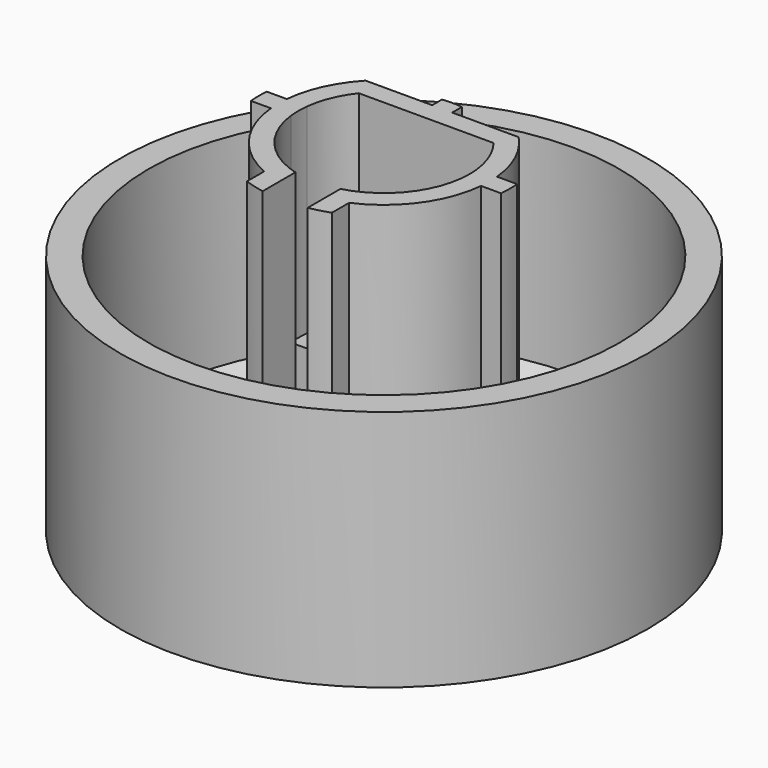
from build123d import *

# Parameters (mm, degrees)
F2_W     = 0.7
F2_H     = 0.7
F3_DEPTH = 13
F4_DEPTH = 6


with BuildPart() as f1:
    # F0 (on Front) → F1 (revolve)
    with BuildSketch(Plane.XZ):
        Polygon((0, 2), (0, 0), (7.25, 0), (9.25, 1), (9.25, 9.5), (8.25, 9.5), (8.25, 2.5), (7, 2), align=None)
    revolve(axis=Axis((0, 0, -0.2857148442), (0, 0, -1)))

    # F2 (on Top) → F3 (join)
    with BuildSketch(Plane.XY):
        with BuildLine():
            Line((-2.9795133831, -0.35), (-3.6834087473, -0.35))
            ThreePointArc((-3.6834087473, -0.35), (-2.9989376836, -2.1671116191), (-1.4885221007, -3.3873739026))
            Line((-1.4885221007, -3.3873739026), (-1.4885221007, -4.1405678301))
            ThreePointArc((-1.4885221007, -4.1405678301), (-1.1424042215, -4.2491072703), (-0.7885221007, -4.3287680576))
            Line((-0.7885221007, -4.3287680576), (-0.7885221007, -3.6150010922))
            Line((-0.7885221007, -3.6150010922), (-0.7885221007, -2.8945177313))
            ThreePointArc((-0.7885221007, -2.8945177313), (-2.2733599524, -1.9575072227), (-2.9795133831, -0.35))
        make_face()
        with BuildLine():
            Line((-0.35, 1.85), (-0.35, 2.55))
            Line((-0.35, 2.55), (-2.6809513237, 2.55))
            ThreePointArc((-2.6809513237, 2.55), (-3.366937745, 1.5341871534), (-3.6834087473, 0.35))
            Line((-3.6834087473, 0.35), (-2.9795133831, 0.35))
            ThreePointArc((-2.9795133831, 0.35), (-2.7739084983, 1.1425548752), (-2.3616731357, 1.85))
            Line((-2.3616731357, 1.85), (-0.35, 1.85))
        make_face()
        with BuildLine():
            Line((2.6809513237, 2.55), (0.35, 2.55))
            Line((0.35, 2.55), (0.35, 1.85))
            Line((0.35, 1.85), (2.3616731357, 1.85))
            ThreePointArc((2.3616731357, 1.85), (2.7739084983, 1.1425548752), (2.9795133831, 0.35))
            Line((2.9795133831, 0.35), (3.6834087473, 0.35))
            ThreePointArc((3.6834087473, 0.35), (3.366937745, 1.5341871534), (2.6809513237, 2.55))
        make_face()
        with BuildLine():
            ThreePointArc((3.6834087473, -0.35), (3.7, 0), (3.6834087473, 0.35))
            Line((3.6834087473, 0.35), (2.9795133831, 0.35))
            ThreePointArc((2.9795133831, 0.35), (3, 0), (2.9795133831, -0.35))
            Line((2.9795133831, -0.35), (3.6834087473, -0.35))
        make_face()
        with Locations((0, 2.2)):
            Rectangle(F2_W, F2_H)
        with BuildLine():
            Line((-2.9795133831, 0.35), (-3.6834087473, 0.35))
            ThreePointArc((-3.6834087473, 0.35), (-3.7, 0), (-3.6834087473, -0.35))
            Line((-3.6834087473, -0.35), (-2.9795133831, -0.35))
            ThreePointArc((-2.9795133831, -0.35), (-3, 0), (-2.9795133831, 0.35))
        make_face()
        with BuildLine():
            ThreePointArc((1.4885221007, -3.3873739026), (2.9989376836, -2.1671116191), (3.6834087473, -0.35))
            Line((3.6834087473, -0.35), (2.9795133831, -0.35))
            ThreePointArc((2.9795133831, -0.35), (2.2733599524, -1.9575072227), (0.7885221007, -2.8945177313))
            Line((0.7885221007, -2.8945177313), (0.7885221007, -3.6150010922))
            Line((0.7885221007, -3.6150010922), (0.7885221007, -4.3287680576))
            ThreePointArc((0.7885221007, -4.3287680576), (1.1424042215, -4.2491072703), (1.4885221007, -4.1405678301))
            Line((1.4885221007, -4.1405678301), (1.4885221007, -3.3873739026))
        make_face()
        with BuildLine():
            ThreePointArc((-3.6834087473, -0.35), (-3.7, 0), (-3.6834087473, 0.35))
            Line((-3.6834087473, 0.35), (-4.3860574552, 0.35))
            ThreePointArc((-4.3860574552, 0.35), (-4.4, 0), (-4.3860574552, -0.35))
            Line((-4.3860574552, -0.35), (-3.6834087473, -0.35))
        make_face()
        with BuildLine():
            Line((0.35, 2.55), (0.35, 2.9795133831))
            ThreePointArc((0.35, 2.9795133831), (0, 3), (-0.35, 2.9795133831))
            Line((-0.35, 2.9795133831), (-0.35, 2.55))
            Line((-0.35, 2.55), (0.35, 2.55))
        make_face()
        with BuildLine():
            Line((4.3860574552, 0.35), (3.6834087473, 0.35))
            ThreePointArc((3.6834087473, 0.35), (3.7, 0), (3.6834087473, -0.35))
            Line((3.6834087473, -0.35), (4.3860574552, -0.35))
            ThreePointArc((4.3860574552, -0.35), (4.4, 0), (4.3860574552, 0.35))
        make_face()
    extrude(amount=F3_DEPTH)

    # F2 (on Top) → F4 (join)
    with BuildSketch(Plane.XY):
        with BuildLine():
            Line((0.35, 0.35), (0.35, 1.85))
            Line((0.35, 1.85), (-0.35, 1.85))
            Line((-0.35, 1.85), (-0.35, 0.35))
            Line((-0.35, 0.35), (-2.9795133831, 0.35))
            ThreePointArc((-2.9795133831, 0.35), (-3, 0), (-2.9795133831, -0.35))
            Line((-2.9795133831, -0.35), (-0.35, -0.35))
            Line((-0.35, -0.35), (-0.35, -2.9795133831))
            ThreePointArc((-0.35, -2.9795133831), (-0.5708451705, -2.9451885833), (-0.7885221007, -2.8945177313))
            Line((-0.7885221007, -2.8945177313), (-0.7885221007, -3.6150010922))
            ThreePointArc((-0.7885221007, -3.6150010922), (0, -3.7), (0.7885221007, -3.6150010922))
            Line((0.7885221007, -3.6150010922), (0.7885221007, -2.8945177313))
            ThreePointArc((0.7885221007, -2.8945177313), (0.5708451705, -2.9451885833), (0.35, -2.9795133831))
            Line((0.35, -2.9795133831), (0.35, -0.35))
            Line((0.35, -0.35), (2.9795133831, -0.35))
            ThreePointArc((2.9795133831, -0.35), (3, 0), (2.9795133831, 0.35))
            Line((2.9795133831, 0.35), (0.35, 0.35))
        make_face()
    extrude(amount=F4_DEPTH)


solid = f1.part
